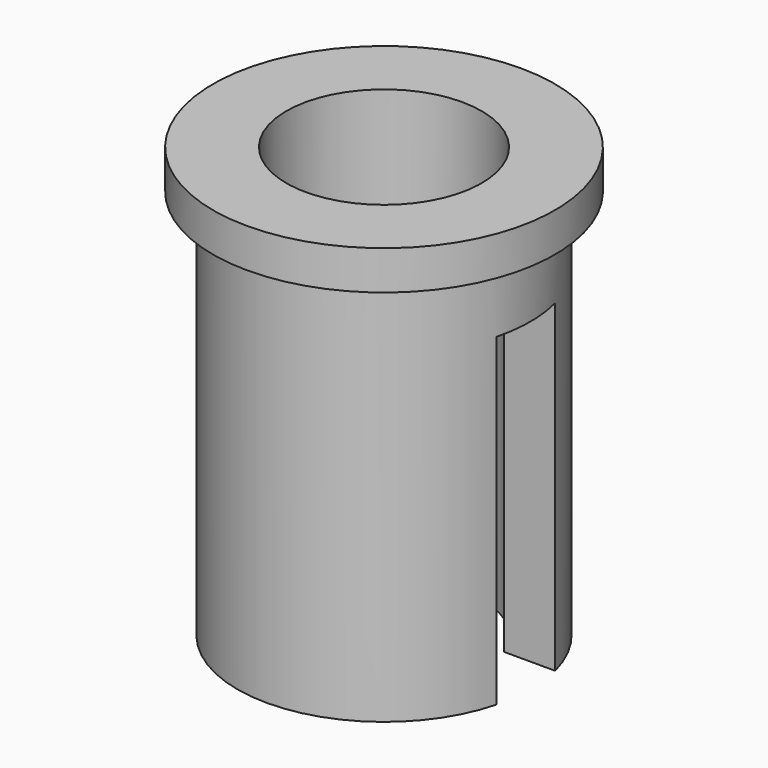
from build123d import *

# Parameters (mm, degrees)
F2_W     = 8
F2_H     = 1.5
F3_DEPTH = 6.63


with BuildPart() as f1:
    # F0 (on Right) → F1 (revolve)
    with BuildSketch(Plane.YZ):
        Polygon((2, 8.8), (2, 0), (3, 0), (3, 8), (3.5, 8), (3.5, 8.8), align=None)
    revolve(axis=Axis((0, 0, 4.285715), (0, 0, 1)))

    # F2 (on face) → F3 (cut)
    with BuildSketch(Plane(origin=(0, 0, 0), x_dir=(1, 0, 0), z_dir=(0, 0, -1))):
        Rectangle(F2_W, F2_H)
    extrude(amount=-F3_DEPTH, mode=Mode.SUBTRACT)


solid = f1.part
